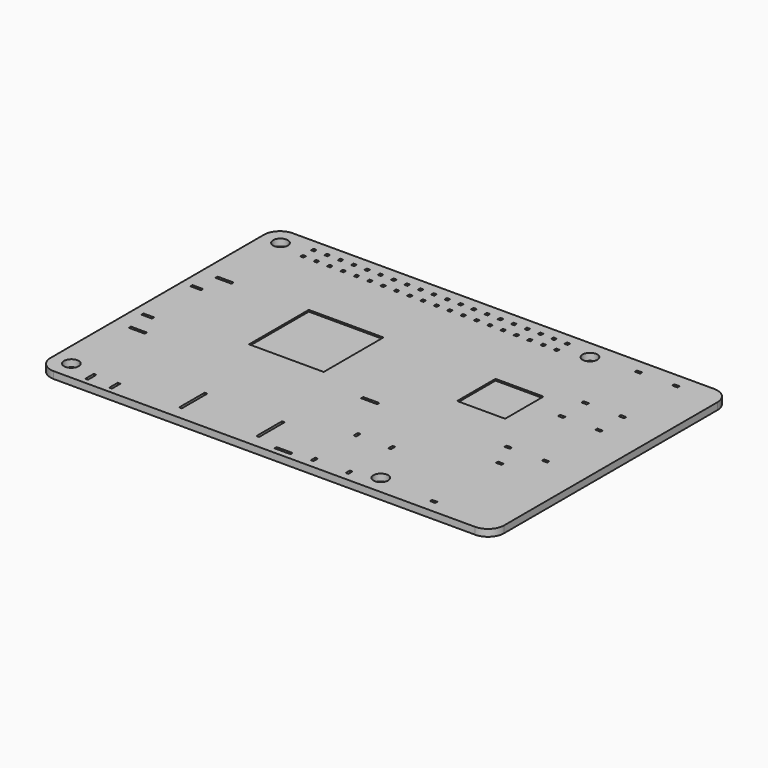
from build123d import *

# Parameters (mm, degrees)
F0_W     = 85
F0_H     = 56
F0_W_2   = 0.5
F0_H_2   = 2
F0_R     = 1.375
F0_H_3   = 6
F0_W_3   = 3
F0_H_4   = 0.5
F0_W_4   = 2
F0_H_5   = 1
F0_W_5   = 1
F0_W_6   = 0.6
F0_H_6   = 0.6
F1_DEPTH = 1.3
F2_R     = 3
F3_W     = 14
F3_H     = 14
F3_W_2   = 9
F3_H_2   = 9
F4_DEPTH = 0.3


with BuildPart() as f1:
    # F0 (on Top) → F1 (new body)
    with BuildSketch(Plane.XY):
        with Locations((42.5, 28)):
            Rectangle(F0_W, F0_H)
        with Locations((8.35, 2)):
            Rectangle(F0_W_2, F0_H_2, mode=Mode.SUBTRACT)
        with Locations((3.5, 3.5)):
            Circle(F0_R, mode=Mode.SUBTRACT)
        with Locations((12.85, 2)):
            Rectangle(F0_W_2, F0_H_2, mode=Mode.SUBTRACT)
        with Locations((24.75, 5.5)):
            Rectangle(F0_W_2, F0_H_3, mode=Mode.SUBTRACT)
        with Locations((39.25, 5.5)):
            Rectangle(F0_W_2, F0_H_3, mode=Mode.SUBTRACT)
        with Locations((4.5, 17.85)):
            Rectangle(F0_W_3, F0_H_4, mode=Mode.SUBTRACT)
        with Locations((2.8, 22.25)):
            Rectangle(F0_W_4, F0_H_4, mode=Mode.SUBTRACT)
        with Locations((45, 1.35)):
            Rectangle(F0_W_3, F0_H_4, mode=Mode.SUBTRACT)
        with Locations((50.25, 2)):
            Rectangle(F0_W_2, F0_H_5, mode=Mode.SUBTRACT)
        with Locations((56.75, 2)):
            Rectangle(F0_W_2, F0_H_5, mode=Mode.SUBTRACT)
        with Locations((61.5, 3.5)):
            Circle(F0_R, mode=Mode.SUBTRACT)
        with Locations((50.25, 12)):
            Rectangle(F0_W_2, F0_H_5, mode=Mode.SUBTRACT)
        with Locations((56.75, 12)):
            Rectangle(F0_W_2, F0_H_5, mode=Mode.SUBTRACT)
        with Locations((72.2, 2.5)):
            Rectangle(F0_W_5, F0_H_4, mode=Mode.SUBTRACT)
        with Locations((45, 21.65)):
            Rectangle(F0_W_3, F0_H_4, mode=Mode.SUBTRACT)
        with Locations((72.2, 18)):
            Rectangle(F0_W_5, F0_H_4, mode=Mode.SUBTRACT)
        with Locations((70, 22.75)):
            Rectangle(F0_W_5, F0_H_4, mode=Mode.SUBTRACT)
        with Locations((77, 22.75)):
            Rectangle(F0_W_5, F0_H_4, mode=Mode.SUBTRACT)
        with Locations((2.8, 33.75)):
            Rectangle(F0_W_4, F0_H_4, mode=Mode.SUBTRACT)
        with Locations((4.5, 38.15)):
            Rectangle(F0_W_3, F0_H_4, mode=Mode.SUBTRACT)
        with Locations((8.75, 51.25)):
            Rectangle(F0_W_6, F0_H_6, mode=Mode.SUBTRACT)
        with Locations((3.5, 52.5)):
            Circle(F0_R, mode=Mode.SUBTRACT)
        with Locations((8.75, 53.75)):
            Rectangle(F0_W_6, F0_H_6, mode=Mode.SUBTRACT)
        with Locations((11.25, 51.25)):
            Rectangle(F0_W_6, F0_H_6, mode=Mode.SUBTRACT)
        with Locations((13.75, 51.25)):
            Rectangle(F0_W_6, F0_H_6, mode=Mode.SUBTRACT)
        with Locations((16.25, 51.25)):
            Rectangle(F0_W_6, F0_H_6, mode=Mode.SUBTRACT)
        with Locations((18.75, 51.25)):
            Rectangle(F0_W_6, F0_H_6, mode=Mode.SUBTRACT)
        with Locations((11.25, 53.75)):
            Rectangle(F0_W_6, F0_H_6, mode=Mode.SUBTRACT)
        with Locations((13.75, 53.75)):
            Rectangle(F0_W_6, F0_H_6, mode=Mode.SUBTRACT)
        with Locations((16.25, 53.75)):
            Rectangle(F0_W_6, F0_H_6, mode=Mode.SUBTRACT)
        with Locations((18.75, 53.75)):
            Rectangle(F0_W_6, F0_H_6, mode=Mode.SUBTRACT)
        with Locations((21.25, 51.25)):
            Rectangle(F0_W_6, F0_H_6, mode=Mode.SUBTRACT)
        with Locations((23.75, 51.25)):
            Rectangle(F0_W_6, F0_H_6, mode=Mode.SUBTRACT)
        with Locations((26.25, 51.25)):
            Rectangle(F0_W_6, F0_H_6, mode=Mode.SUBTRACT)
        with Locations((28.75, 51.25)):
            Rectangle(F0_W_6, F0_H_6, mode=Mode.SUBTRACT)
        with Locations((31.25, 51.25)):
            Rectangle(F0_W_6, F0_H_6, mode=Mode.SUBTRACT)
        with Locations((21.25, 53.75)):
            Rectangle(F0_W_6, F0_H_6, mode=Mode.SUBTRACT)
        with Locations((23.75, 53.75)):
            Rectangle(F0_W_6, F0_H_6, mode=Mode.SUBTRACT)
        with Locations((26.25, 53.75)):
            Rectangle(F0_W_6, F0_H_6, mode=Mode.SUBTRACT)
        with Locations((28.75, 53.75)):
            Rectangle(F0_W_6, F0_H_6, mode=Mode.SUBTRACT)
        with Locations((31.25, 53.75)):
            Rectangle(F0_W_6, F0_H_6, mode=Mode.SUBTRACT)
        with Locations((33.75, 51.25)):
            Rectangle(F0_W_6, F0_H_6, mode=Mode.SUBTRACT)
        with Locations((36.25, 51.25)):
            Rectangle(F0_W_6, F0_H_6, mode=Mode.SUBTRACT)
        with Locations((38.75, 51.25)):
            Rectangle(F0_W_6, F0_H_6, mode=Mode.SUBTRACT)
        with Locations((41.25, 51.25)):
            Rectangle(F0_W_6, F0_H_6, mode=Mode.SUBTRACT)
        with Locations((33.75, 53.75)):
            Rectangle(F0_W_6, F0_H_6, mode=Mode.SUBTRACT)
        with Locations((36.25, 53.75)):
            Rectangle(F0_W_6, F0_H_6, mode=Mode.SUBTRACT)
        with Locations((38.75, 53.75)):
            Rectangle(F0_W_6, F0_H_6, mode=Mode.SUBTRACT)
        with Locations((41.25, 53.75)):
            Rectangle(F0_W_6, F0_H_6, mode=Mode.SUBTRACT)
        with Locations((70, 35.25)):
            Rectangle(F0_W_5, F0_H_4, mode=Mode.SUBTRACT)
        with Locations((70, 40.75)):
            Rectangle(F0_W_5, F0_H_4, mode=Mode.SUBTRACT)
        with Locations((77, 35.25)):
            Rectangle(F0_W_5, F0_H_4, mode=Mode.SUBTRACT)
        with Locations((77, 40.75)):
            Rectangle(F0_W_5, F0_H_4, mode=Mode.SUBTRACT)
        with Locations((43.75, 51.25)):
            Rectangle(F0_W_6, F0_H_6, mode=Mode.SUBTRACT)
        with Locations((46.25, 51.25)):
            Rectangle(F0_W_6, F0_H_6, mode=Mode.SUBTRACT)
        with Locations((48.75, 51.25)):
            Rectangle(F0_W_6, F0_H_6, mode=Mode.SUBTRACT)
        with Locations((51.25, 51.25)):
            Rectangle(F0_W_6, F0_H_6, mode=Mode.SUBTRACT)
        with Locations((43.75, 53.75)):
            Rectangle(F0_W_6, F0_H_6, mode=Mode.SUBTRACT)
        with Locations((46.25, 53.75)):
            Rectangle(F0_W_6, F0_H_6, mode=Mode.SUBTRACT)
        with Locations((48.75, 53.75)):
            Rectangle(F0_W_6, F0_H_6, mode=Mode.SUBTRACT)
        with Locations((51.25, 53.75)):
            Rectangle(F0_W_6, F0_H_6, mode=Mode.SUBTRACT)
        with Locations((53.75, 51.25)):
            Rectangle(F0_W_6, F0_H_6, mode=Mode.SUBTRACT)
        with Locations((56.25, 51.25)):
            Rectangle(F0_W_6, F0_H_6, mode=Mode.SUBTRACT)
        with Locations((53.75, 53.75)):
            Rectangle(F0_W_6, F0_H_6, mode=Mode.SUBTRACT)
        with Locations((56.25, 53.75)):
            Rectangle(F0_W_6, F0_H_6, mode=Mode.SUBTRACT)
        with Locations((61.5, 52.5)):
            Circle(F0_R, mode=Mode.SUBTRACT)
        with Locations((70, 53.25)):
            Rectangle(F0_W_5, F0_H_4, mode=Mode.SUBTRACT)
        with Locations((77, 53.25)):
            Rectangle(F0_W_5, F0_H_4, mode=Mode.SUBTRACT)
    extrude(amount=F1_DEPTH)

    # F2
    f2_edges = [f1.edges().sort_by_distance(p)[0] for p in [
        (0, 0, 0.65),
        (0, 56, 0.65),
        (85, 0, 0.65),
        (85, 56, 0.65),
    ]]
    fillet(f2_edges, radius=F2_R)

    # F3 (on face) → F4 (cut)
    with BuildSketch(Plane.XY.offset(1.3)):
        with Locations((27, 31.5)):
            Rectangle(F3_W, F3_H)
        with Locations((59.5, 34)):
            Rectangle(F3_W_2, F3_H_2)
    extrude(amount=-F4_DEPTH, mode=Mode.SUBTRACT)


solid = f1.part
